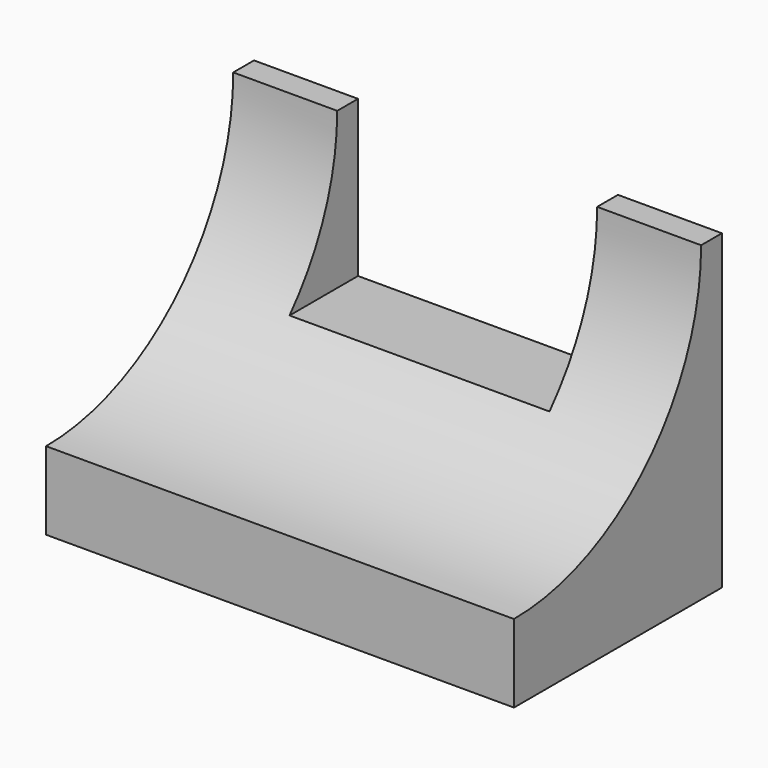
from build123d import *

# Parameters (mm, degrees)
F0_W     = 114.3
F0_H     = 76.2
F1_DEPTH = 63.5
F3_DEPTH = 114.301
F4_W     = 63.5
F4_H     = 38.1
F5_DEPTH = 63.501


with BuildPart() as f1:
    # F0 (on Front) → F1 (new body)
    with BuildSketch(Plane.XZ):
        with Locations((8.159315, -2.892731)):
            Rectangle(F0_W, F0_H)
    extrude(amount=-F1_DEPTH)

    # F2 (on face) → F3 (cut, through all)
    with BuildSketch(Plane.YZ.offset(65.309315)):
        with BuildLine():
            Line((0, 35.207269), (0, -21.942731))
            ThreePointArc((0, -21.942731), (40.411153, -5.203884), (57.15, 35.207269))
            Line((57.15, 35.207269), (0, 35.207269))
        make_face()
    extrude(amount=-F3_DEPTH, mode=Mode.SUBTRACT)

    # F4 (on face) → F5 (cut, through all)
    with BuildSketch(Plane(origin=(0, 63.5, 0), x_dir=(-1, 0, 0), z_dir=(0, 1, 0))):
        with Locations((-8.159315, 16.157269)):
            Rectangle(F4_W, F4_H)
    extrude(amount=-F5_DEPTH, mode=Mode.SUBTRACT)


solid = f1.part
